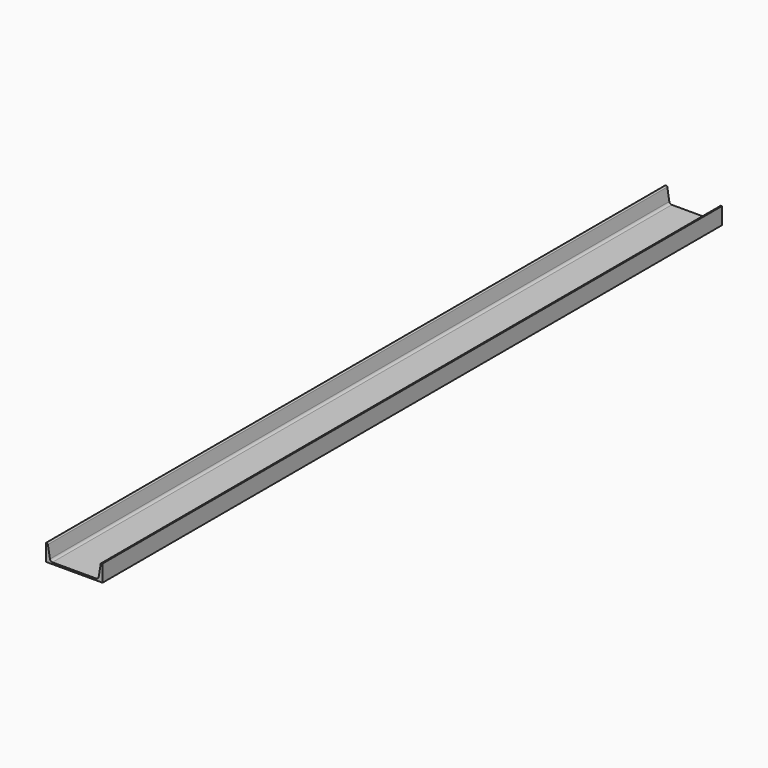
from build123d import *

# Parameters (mm, degrees)
F1_DEPTH = 2438.4


with BuildPart() as f1:
    # F0 (on Front) → F1 (new body)
    with BuildSketch(Plane.XZ):
        with BuildLine():
            Line((-71.775456, 0), (106.024544, 0))
            Line((106.024544, 0), (106.024544, 53.086))
            Line((106.024544, 53.086), (103.492655, 53.086))
            ThreePointArc((103.492655, 53.086), (101.356152, 52.30165), (100.234651, 50.321224))
            Line((100.234651, 50.321224), (93.903676, 11.926927))
            ThreePointArc((93.903676, 11.926927), (91.229326, 7.204374), (86.134588, 5.334))
            Line((86.134588, 5.334), (-51.885499, 5.334))
            ThreePointArc((-51.885499, 5.334), (-56.980237, 7.204374), (-59.654587, 11.926927))
            Line((-59.654587, 11.926927), (-65.985562, 50.321224))
            ThreePointArc((-65.985562, 50.321224), (-67.107063, 52.30165), (-69.243566, 53.086))
            Line((-69.243566, 53.086), (-71.775456, 53.086))
            Line((-71.775456, 53.086), (-71.775456, 0))
        make_face()
    extrude(amount=F1_DEPTH)


solid = f1.part
